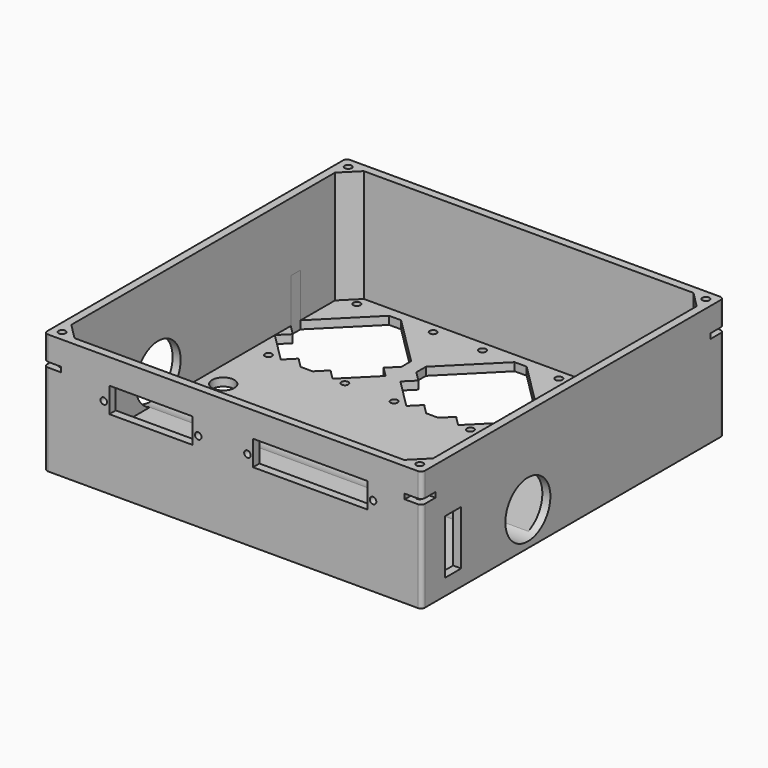
from build123d import *

# Parameters (mm, degrees)
SKETCH002_R       = 1.625
SKETCH002_W       = 41.5
SKETCH002_H       = 12.5
SKETCH002_W_2     = 57
EXTRUDE001_DEPTH  = 10
BOX012_W          = 10
BOX012_H          = 10
BOX012_DEPTH      = 2.5
FILLET007_R       = 3
BOX011_W          = 10
BOX011_H          = 10
BOX011_DEPTH      = 2.5
FILLET008_R       = 3
BOX013_W          = 10
BOX013_H          = 10
BOX013_DEPTH      = 2.5
FILLET006_R       = 3
BOX010_W          = 10
BOX010_H          = 10
BOX010_DEPTH      = 2.5
FILLET005_R       = 3
CYLINDER022_R     = 1.75
CYLINDER022_DEPTH = 100
CYLINDER021_R     = 1.75
CYLINDER021_DEPTH = 100
CYLINDER020_R     = 1.75
CYLINDER020_DEPTH = 100
CYLINDER019_R     = 1.75
CYLINDER019_DEPTH = 100
CYLINDER018_R     = 1.75
CYLINDER018_DEPTH = 10
CYLINDER017_R     = 1.75
CYLINDER017_DEPTH = 10
CYLINDER016_R     = 1.75
CYLINDER016_DEPTH = 10
CYLINDER015_R     = 1.75
CYLINDER015_DEPTH = 10
CYLINDER014_R     = 1.75
CYLINDER014_DEPTH = 10
CYLINDER013_R     = 1.75
CYLINDER013_DEPTH = 10
CYLINDER012_R     = 1.75
CYLINDER012_DEPTH = 10
CYLINDER011_R     = 1.75
CYLINDER011_DEPTH = 10
CYLINDER010_R     = 1.75
CYLINDER010_DEPTH = 10
CYLINDER009_R     = 1.75
CYLINDER009_DEPTH = 10
CYLINDER008_R     = 1.75
CYLINDER008_DEPTH = 10
CYLINDER007_R     = 1.75
CYLINDER007_DEPTH = 10
CYLINDER006_R     = 1.625
CYLINDER006_DEPTH = 10
CYLINDER005_R     = 1.625
CYLINDER005_DEPTH = 10
CYLINDER004_R     = 1.625
CYLINDER004_DEPTH = 10
CYLINDER003_R     = 1.625
CYLINDER003_DEPTH = 10
CYLINDER002_R     = 14
CYLINDER002_DEPTH = 200
BOX008_W          = 200
BOX008_H          = 10
BOX008_DEPTH      = 27
BOX007_W          = 40
BOX007_H          = 9
BOX007_DEPTH      = 30
CYLINDER001_R     = 5.5
CYLINDER001_DEPTH = 10
CYLINDER_R        = 5.5
CYLINDER_DEPTH    = 10
EXTRUDE_DEPTH     = 30
BOX006_W          = 180
BOX006_H          = 180
BOX006_DEPTH      = 56
CHAMFER001_SIZE   = 8
BOX005_W          = 188
BOX005_H          = 188
BOX005_DEPTH      = 60
FILLET009_R       = 2


with BuildPart() as extrude001:
    # Sketch002 (on Face2 of Cut014) → Extrude001 (new body)
    with BuildSketch(Plane.XZ.offset(94)):
        with Locations((-17.25, -7.65)):
            Circle(SKETCH002_R)
        with Locations((-64.25, -7.65)):
            Circle(SKETCH002_R)
        with Locations((7.25, -7.65)):
            Circle(SKETCH002_R)
        with Locations((69.75, -7.65)):
            Circle(SKETCH002_R)
        with Locations((-40.75, -6.25)):
            Rectangle(SKETCH002_W, SKETCH002_H)
        with Locations((38.5, -6.25)):
            Rectangle(SKETCH002_W_2, SKETCH002_H)
    extrude(amount=EXTRUDE001_DEPTH)


with BuildPart() as extrude001_1:
    # Extrude001 placement: moved
    add(extrude001.part.moved(Location((0, 5.5, 47.5))))


with BuildPart() as fillet007:
    # Box012 → Box012 (new body)
    with BuildSketch(Plane(origin=(-25, 23, 0), x_dir=(1, 0, 0), z_dir=(0, 0, 1))):
        with Locations((5, 5)):
            Rectangle(BOX012_W, BOX012_H)
    extrude(amount=BOX012_DEPTH)

    # Fillet007
    fillet007_edges = [fillet007.edges().sort_by_distance(p)[0] for p in [
        (-15, 23, 1.25),
    ]]
    fillet(fillet007_edges, radius=FILLET007_R)


with BuildPart() as fillet007_1:
    # Fillet007 placement: moved
    add(fillet007.part.moved(Location((-70.5, 62.5, 45.5))))


with BuildPart() as fillet008:
    # Box011 → Box011 (new body)
    with BuildSketch(Plane(origin=(0, 22.5, 0), x_dir=(1, 0, 0), z_dir=(0, 0, 1))):
        with Locations((5, 5)):
            Rectangle(BOX011_W, BOX011_H)
    extrude(amount=BOX011_DEPTH)

    # Fillet008
    fillet008_edges = [fillet008.edges().sort_by_distance(p)[0] for p in [
        (0, 22.5, 1.25),
    ]]
    fillet(fillet008_edges, radius=FILLET008_R)


with BuildPart() as fillet008_1:
    # Fillet008 placement: moved
    add(fillet008.part.moved(Location((85.5, 63, 45.5))))


with BuildPart() as fillet006:
    # Box013 → Box013 (new body)
    with BuildSketch(Plane.XY):
        with Locations((5, 5)):
            Rectangle(BOX013_W, BOX013_H)
    extrude(amount=BOX013_DEPTH)

    # Fillet006
    fillet006_edges = [fillet006.edges().sort_by_distance(p)[0] for p in [
        (0, 10, 1.25),
    ]]
    fillet(fillet006_edges, radius=FILLET006_R)


with BuildPart() as fillet006_1:
    # Fillet006 placement: moved
    add(fillet006.part.moved(Location((85.5, -95.5, 45.5))))


with BuildPart() as nut_slot_cuts001:
    # Box010 → Box010 (new body)
    with BuildSketch(Plane(origin=(-23.5, 0, 0), x_dir=(1, 0, 0), z_dir=(0, 0, 1))):
        with Locations((5, 5)):
            Rectangle(BOX010_W, BOX010_H)
    extrude(amount=BOX010_DEPTH)

    # Fillet005
    fillet005_edges = [nut_slot_cuts001.edges().sort_by_distance(p)[0] for p in [
        (-13.5, 10, 1.25),
    ]]
    fillet(fillet005_edges, radius=FILLET005_R)


with BuildPart() as nut_slot_cuts001_1:
    # Fillet005 placement: moved
    add(nut_slot_cuts001.part.moved(Location((-72, -95.5, 45.5))))

    # Fusion018: union Fillet006
    add(fillet006_1.part)

    # Fusion019: union Fillet008
    add(fillet008_1.part)

    # Fusion020: union Fillet007
    add(fillet007_1.part)


with BuildPart() as cylinder022:
    # Cylinder022 → Cylinder022 (new body)
    with BuildSketch(Plane(origin=(89, -89, -12.5), x_dir=(1, 0, 0), z_dir=(0, 0, 1))):
        Circle(CYLINDER022_R)
    extrude(amount=CYLINDER022_DEPTH)


with BuildPart() as fusion016:
    # Cylinder021 → Cylinder021 (new body)
    with BuildSketch(Plane(origin=(-89, -89, -12.5), x_dir=(1, 0, 0), z_dir=(0, 0, 1))):
        Circle(CYLINDER021_R)
    extrude(amount=CYLINDER021_DEPTH)

    # Fusion016: union Cylinder022
    add(cylinder022.part)


with BuildPart() as fusion016_1:
    # Fusion016 placement: moved
    add(fusion016.part.moved(Location((0, 178, 0))))


with BuildPart() as cylinder020:
    # Cylinder020 → Cylinder020 (new body)
    with BuildSketch(Plane(origin=(89, -89, -12.5), x_dir=(1, 0, 0), z_dir=(0, 0, 1))):
        Circle(CYLINDER020_R)
    extrude(amount=CYLINDER020_DEPTH)


with BuildPart() as corner_screw_holes001:
    # Cylinder019 → Cylinder019 (new body)
    with BuildSketch(Plane(origin=(-89, -89, -12.5), x_dir=(1, 0, 0), z_dir=(0, 0, 1))):
        Circle(CYLINDER019_R)
    extrude(amount=CYLINDER019_DEPTH)

    # Fusion015: union Cylinder020
    add(cylinder020.part)

    # Fusion017: union Fusion016
    add(fusion016_1.part)


with BuildPart() as stepper_screw_hole011:
    # Cylinder018 → Cylinder018 (new body)
    with BuildSketch(Plane(origin=(81.5, 85, -6), x_dir=(1, 0, 0), z_dir=(0, 0, 1))):
        Circle(CYLINDER018_R)
    extrude(amount=CYLINDER018_DEPTH)


with BuildPart() as fusion013:
    # Cylinder017 → Cylinder017 (new body)
    with BuildSketch(Plane(origin=(81.5, 30, -6), x_dir=(1, 0, 0), z_dir=(0, 0, 1))):
        Circle(CYLINDER017_R)
    extrude(amount=CYLINDER017_DEPTH)

    # Fusion013: union Stepper Screw Hole011
    add(stepper_screw_hole011.part)


with BuildPart() as fusion013_1:
    # Fusion013 placement: moved
    add(fusion013.part.moved(Location((-38, 0, 0))))


with BuildPart() as stepper_screw_hole009:
    # Cylinder016 → Cylinder016 (new body)
    with BuildSketch(Plane(origin=(81.5, 85, -6), x_dir=(1, 0, 0), z_dir=(0, 0, 1))):
        Circle(CYLINDER016_R)
    extrude(amount=CYLINDER016_DEPTH)


with BuildPart() as stepper_z_screw_hole_cuts001:
    # Cylinder015 → Cylinder015 (new body)
    with BuildSketch(Plane(origin=(81.5, 30, -6), x_dir=(1, 0, 0), z_dir=(0, 0, 1))):
        Circle(CYLINDER015_R)
    extrude(amount=CYLINDER015_DEPTH)

    # Fusion012: union Stepper Screw Hole009
    add(stepper_screw_hole009.part)

    # Fusion014: union Fusion013
    add(fusion013_1.part)


with BuildPart() as stepper_z_screw_hole_cuts001_1:
    # Fusion014 placement: moved
    add(stepper_z_screw_hole_cuts001.part.moved(Location((-125, 0, 0))))


with BuildPart() as stepper_screw_hole007:
    # Cylinder014 → Cylinder014 (new body)
    with BuildSketch(Plane(origin=(81.5, 85, -6), x_dir=(1, 0, 0), z_dir=(0, 0, 1))):
        Circle(CYLINDER014_R)
    extrude(amount=CYLINDER014_DEPTH)


with BuildPart() as fusion010:
    # Cylinder013 → Cylinder013 (new body)
    with BuildSketch(Plane(origin=(81.5, 30, -6), x_dir=(1, 0, 0), z_dir=(0, 0, 1))):
        Circle(CYLINDER013_R)
    extrude(amount=CYLINDER013_DEPTH)

    # Fusion010: union Stepper Screw Hole007
    add(stepper_screw_hole007.part)


with BuildPart() as fusion010_1:
    # Fusion010 placement: moved
    add(fusion010.part.moved(Location((-38, 0, 0))))


with BuildPart() as stepper_screw_hole005:
    # Cylinder012 → Cylinder012 (new body)
    with BuildSketch(Plane(origin=(81.5, 85, -6), x_dir=(1, 0, 0), z_dir=(0, 0, 1))):
        Circle(CYLINDER012_R)
    extrude(amount=CYLINDER012_DEPTH)


with BuildPart() as stepper_y_screw_hole_cuts001:
    # Cylinder011 → Cylinder011 (new body)
    with BuildSketch(Plane(origin=(81.5, 30, -6), x_dir=(1, 0, 0), z_dir=(0, 0, 1))):
        Circle(CYLINDER011_R)
    extrude(amount=CYLINDER011_DEPTH)

    # Fusion009: union Stepper Screw Hole005
    add(stepper_screw_hole005.part)

    # Fusion011: union Fusion010
    add(fusion010_1.part)


with BuildPart() as stepper_y_screw_hole_cuts001_1:
    # Fusion011 placement: moved
    add(stepper_y_screw_hole_cuts001.part.moved(Location((-62.5, 0, 0))))


with BuildPart() as stepper_screw_hole003:
    # Cylinder010 → Cylinder010 (new body)
    with BuildSketch(Plane(origin=(81.5, 85, -6), x_dir=(1, 0, 0), z_dir=(0, 0, 1))):
        Circle(CYLINDER010_R)
    extrude(amount=CYLINDER010_DEPTH)


with BuildPart() as fusion007:
    # Cylinder009 → Cylinder009 (new body)
    with BuildSketch(Plane(origin=(81.5, 30, -6), x_dir=(1, 0, 0), z_dir=(0, 0, 1))):
        Circle(CYLINDER009_R)
    extrude(amount=CYLINDER009_DEPTH)

    # Fusion007: union Stepper Screw Hole003
    add(stepper_screw_hole003.part)


with BuildPart() as fusion007_1:
    # Fusion007 placement: moved
    add(fusion007.part.moved(Location((-38, 0, 0))))


with BuildPart() as stepper_screw_hole001:
    # Cylinder008 → Cylinder008 (new body)
    with BuildSketch(Plane(origin=(81.5, 85, -6), x_dir=(1, 0, 0), z_dir=(0, 0, 1))):
        Circle(CYLINDER008_R)
    extrude(amount=CYLINDER008_DEPTH)


with BuildPart() as stepper_x_screw_hole_cuts:
    # Cylinder007 → Cylinder007 (new body)
    with BuildSketch(Plane(origin=(81.5, 30, -6), x_dir=(1, 0, 0), z_dir=(0, 0, 1))):
        Circle(CYLINDER007_R)
    extrude(amount=CYLINDER007_DEPTH)

    # Fusion006: union Stepper Screw Hole001
    add(stepper_screw_hole001.part)

    # Fusion008: union Fusion007
    add(fusion007_1.part)


with BuildPart() as circulation_pump_mounting_holes003:
    # Cylinder006 → Cylinder006 (new body)
    with BuildSketch(Plane(origin=(-50, -48, -4), x_dir=(1, 0, 0), z_dir=(0, 0, 1))):
        Circle(CYLINDER006_R)
    extrude(amount=CYLINDER006_DEPTH)


with BuildPart() as fusion004:
    # Cylinder005 → Cylinder005 (new body)
    with BuildSketch(Plane(origin=(-50, -15, -6), x_dir=(1, 0, 0), z_dir=(0, 0, 1))):
        Circle(CYLINDER005_R)
    extrude(amount=CYLINDER005_DEPTH)

    # Fusion004: union Circulation Pump Mounting Holes003
    add(circulation_pump_mounting_holes003.part)


with BuildPart() as fusion004_1:
    # Fusion004 placement: moved
    add(fusion004.part.moved(Location((100, 0, 0))))


with BuildPart() as circulation_pump_mounting_holes001:
    # Cylinder004 → Cylinder004 (new body)
    with BuildSketch(Plane(origin=(-50, -48, -4), x_dir=(1, 0, 0), z_dir=(0, 0, 1))):
        Circle(CYLINDER004_R)
    extrude(amount=CYLINDER004_DEPTH)


with BuildPart() as circulation_pumps_mounting_holes:
    # Cylinder003 → Cylinder003 (new body)
    with BuildSketch(Plane(origin=(-50, -15, -6), x_dir=(1, 0, 0), z_dir=(0, 0, 1))):
        Circle(CYLINDER003_R)
    extrude(amount=CYLINDER003_DEPTH)

    # Fusion003: union Circulation Pump Mounting Holes001
    add(circulation_pump_mounting_holes001.part)

    # Fusion005: union Fusion004
    add(fusion004_1.part)


with BuildPart() as cylinder:
    # Cylinder002 → Cylinder002 (new body)
    with BuildSketch(Plane(origin=(99.5, -28, 17), x_dir=(0, 0, 1), z_dir=(-1, 0, 0))):
        Circle(CYLINDER002_R)
    extrude(amount=CYLINDER002_DEPTH)


with BuildPart() as stand_support_cuts:
    # Box008 → Box008 (new body)
    with BuildSketch(Plane(origin=(-97, -79.5, 8), x_dir=(1, 0, 0), z_dir=(0, 0, 1))):
        with Locations((100, 5)):
            Rectangle(BOX008_W, BOX008_H)
    extrude(amount=BOX008_DEPTH)


with BuildPart() as c_support_cut:
    # Box007 → Box007 (new body)
    with BuildSketch(Plane(origin=(-20, -73, -6), x_dir=(1, 0, 0), z_dir=(0, 0, 1))):
        with Locations((20, 4.5)):
            Rectangle(BOX007_W, BOX007_H)
    extrude(amount=BOX007_DEPTH)


with BuildPart() as cylinder001:
    # Cylinder001 → Cylinder001 (new body)
    with BuildSketch(Plane(origin=(-80, -56, 0), x_dir=(1, 0, 0), z_dir=(0, 0, 1))):
        Circle(CYLINDER001_R)
    extrude(amount=CYLINDER001_DEPTH)


with BuildPart() as cylinder_body:
    # Cylinder → Cylinder (new body)
    with BuildSketch(Plane(origin=(-80, 0, 0), x_dir=(1, 0, 0), z_dir=(0, 0, 1))):
        Circle(CYLINDER_R)
    extrude(amount=CYLINDER_DEPTH)


with BuildPart() as extrude_body:
    # Sketch013 → Extrude (new body)
    with BuildSketch(Plane(origin=(1, 7, -78), x_dir=(1, 0, 0), z_dir=(0, 0, 1))):
        Polygon((-90.050747, 54.550747), (-90.050747, 60.550747), (-65.542426, 85.059068), (-59.542426, 85.059068), (-34.949253, 60.550747), (-34.949253, 54.550747), (-39.899, 49.601), (-34.949253, 44.651253), (-49.600505, 30), (-54.550253, 34.949747), (-59.5, 30), (-65.5, 30), (-70.449747, 34.949747), (-75.399495, 30), (-90.050747, 44.651253), (-85.101, 49.601), align=None)
        Polygon((-27.550747, 60.550747), (-3.042426, 85.059068), (2.957574, 85.059068), (27.550747, 60.550747), (27.550747, 54.550747), (22.601, 49.601), (27.550747, 44.651253), (12.899495, 30), (7.949747, 34.949747), (3, 30), (-3, 30), (-7.949747, 34.949747), (-12.899495, 30), (-27.550747, 44.651253), (-22.601, 49.601), (-27.550747, 54.550747), align=None)
        Polygon((34.949253, 54.550747), (34.949253, 60.550747), (59.457574, 85.059068), (65.457574, 85.059068), (90.050747, 60.550747), (90.050747, 54.550747), (85.101, 49.601), (90.050747, 44.651253), (75.399495, 30), (70.449747, 34.949747), (65.5, 30), (59.5, 30), (54.550253, 34.949747), (49.600505, 30), (34.949253, 44.651253), (39.899, 49.601), align=None)
    extrude(amount=EXTRUDE_DEPTH)


with BuildPart() as extrude_body_1:
    # Extrude placement: moved
    add(extrude_body.part.moved(Location((-1, -7, 74))))


with BuildPart() as chamfer001:
    # Box006 → Box006 (new body)
    with BuildSketch(Plane.XY):
        with Locations((90, 90)):
            Rectangle(BOX006_W, BOX006_H)
    extrude(amount=BOX006_DEPTH)

    # Chamfer001
    chamfer001_edges = [chamfer001.edges().sort_by_distance(p)[0] for p in [
        (0, 0, 28),
        (0, 180, 28),
        (180, 0, 28),
        (180, 180, 28),
    ]]
    chamfer(chamfer001_edges, length=CHAMFER001_SIZE)


with BuildPart() as chamfer001_1:
    # Chamfer001 placement: moved
    add(chamfer001.part.moved(Location((-90, -90, 4))))


with BuildPart() as new_v1_1_pumps_box:
    # Box005 → Box005 (new body)
    with BuildSketch(Plane(origin=(-94, -94, 0), x_dir=(1, 0, 0), z_dir=(0, 0, 1))):
        with Locations((94, 94)):
            Rectangle(BOX005_W, BOX005_H)
    extrude(amount=BOX005_DEPTH)

    # Cut002: cut Chamfer001
    add(chamfer001_1.part, mode=Mode.SUBTRACT)

    # Cut003: cut Extrude body
    add(extrude_body_1.part, mode=Mode.SUBTRACT)

    # Cut004: cut Cylinder body
    add(cylinder_body.part, mode=Mode.SUBTRACT)

    # Cut005: cut Cylinder001
    add(cylinder001.part, mode=Mode.SUBTRACT)

    # Cut006: cut C Support Cut
    add(c_support_cut.part, mode=Mode.SUBTRACT)

    # Cut007: cut Stand Support Cuts
    add(stand_support_cuts.part, mode=Mode.SUBTRACT)

    # Cut008: cut Cylinder
    add(cylinder.part, mode=Mode.SUBTRACT)

    # Cut009: cut Circulation Pumps Mounting Holes
    add(circulation_pumps_mounting_holes.part, mode=Mode.SUBTRACT)

    # Cut010: cut Stepper X Screw Hole Cuts
    add(stepper_x_screw_hole_cuts.part, mode=Mode.SUBTRACT)

    # Cut011: cut Stepper Y Screw Hole Cuts001
    add(stepper_y_screw_hole_cuts001_1.part, mode=Mode.SUBTRACT)

    # Cut012: cut Stepper Z Screw Hole Cuts001
    add(stepper_z_screw_hole_cuts001_1.part, mode=Mode.SUBTRACT)

    # Cut013: cut Corner Screw Holes001
    add(corner_screw_holes001.part, mode=Mode.SUBTRACT)

    # Cut014: cut Nut slot cuts001
    add(nut_slot_cuts001_1.part, mode=Mode.SUBTRACT)

    # Cut015: cut Extrude001
    add(extrude001_1.part, mode=Mode.SUBTRACT)

    # Fillet009
    fillet009_edges = [new_v1_1_pumps_box.edges().sort_by_distance(p)[0] for p in [
        (-94, -94, 22.75),
        (-94, -94, 54),
        (-94, 94, 54),
        (-94, 94, 22.75),
        (94, -94, 22.75),
        (94, -94, 54),
        (94, 94, 22.75),
        (94, 94, 54),
    ]]
    fillet(fillet009_edges, radius=FILLET009_R)


solid = new_v1_1_pumps_box.part
